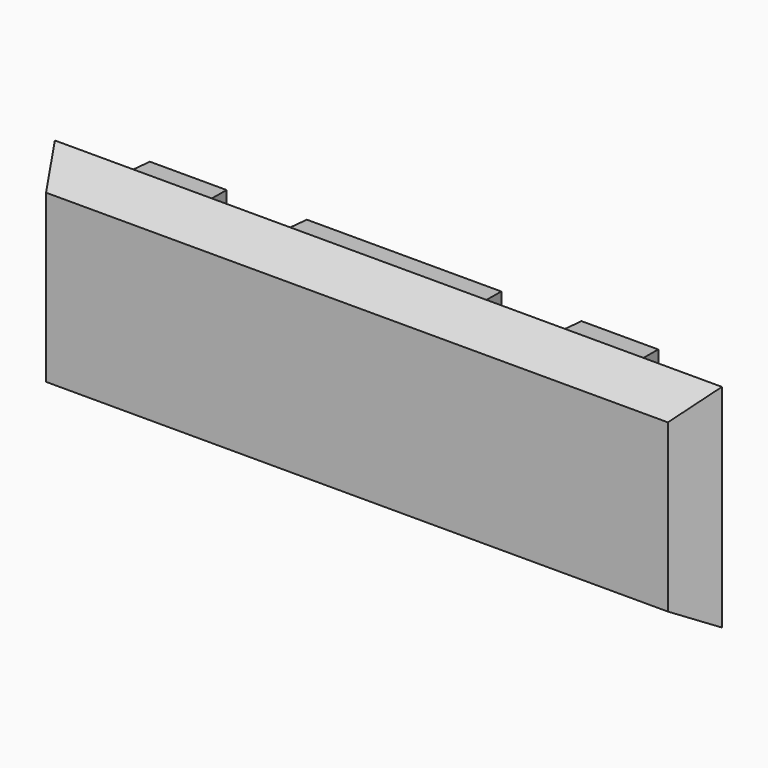
from build123d import *

# Parameters (mm, degrees)
F0_W     = 25
F0_H     = 10
F0_W_2   = 10
F0_H_2   = 2.5
F0_H_3   = 12
F1_DEPTH = 5
F1_TAPER = 30
F2_DEPTH = 2.5
F2_TAPER = 2.5


with BuildPart() as f1:
    # F0 (on Front) → F1 (new body)
    with BuildSketch(Plane.XZ):
        Polygon((42.5, -17.5), (42.5, 9.5), (32.5, 9.5), (32.5, 7), (40, 7), (40, -15), (15, -15), (15, 7), (22.5, 7), (22.5, 9.5), (12.5, 9.5), (12.5, -2.5), (-12.5, -2.5), (-12.5, 9.5), (-22.5, 9.5), (-22.5, 7), (-15, 7), (-15, -15), (-40, -15), (-40, 7), (-32.5, 7), (-32.5, 9.5), (-42.5, 9.5), (-42.5, -17.5), align=None)
        with Locations((0, -10)):
            Rectangle(F0_W, F0_H, mode=Mode.SUBTRACT)
        with Locations((27.5, 8.25)):
            Rectangle(F0_W_2, F0_H_2)
        Polygon((40, 7), (32.5, 7), (22.5, 7), (15, 7), (15, -15), (40, -15), align=None)
        with Locations((0, 3.5)):
            Rectangle(F0_W, F0_H_3)
        with Locations((0, -10)):
            Rectangle(F0_W, F0_H)
        Polygon((-15, 7), (-22.5, 7), (-32.5, 7), (-40, 7), (-40, -15), (-15, -15), align=None)
        with Locations((-27.5, 8.25)):
            Rectangle(F0_W_2, F0_H_2)
    extrude(amount=F1_DEPTH, taper=F1_TAPER)

    # F0 (on Front) → F2 (join)
    with BuildSketch(Plane.XZ):
        Polygon((40, 7), (32.5, 7), (22.5, 7), (15, 7), (15, -15), (40, -15), align=None)
        Polygon((-15, 7), (-22.5, 7), (-32.5, 7), (-40, 7), (-40, -15), (-15, -15), align=None)
        with Locations((0, -10)):
            Rectangle(F0_W, F0_H)
        with Locations((0, 3.5)):
            Rectangle(F0_W, F0_H_3)
        with Locations((27.5, 8.25)):
            Rectangle(F0_W_2, F0_H_2)
        with Locations((-27.5, 8.25)):
            Rectangle(F0_W_2, F0_H_2)
    extrude(amount=-F2_DEPTH, taper=F2_TAPER)


solid = f1.part
